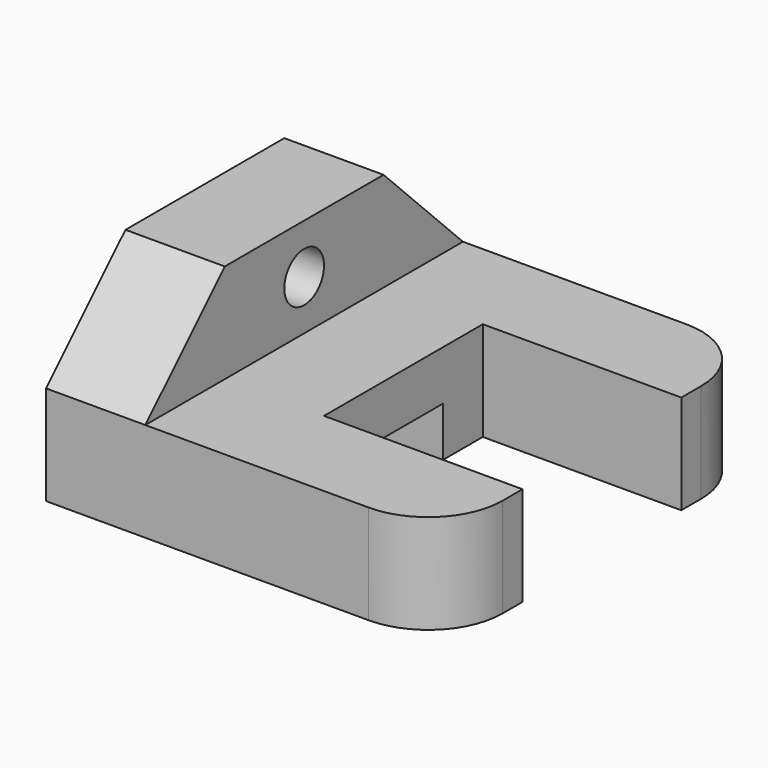
from build123d import *

# Parameters (mm, degrees)
F1_DEPTH = 50.8
F3_DEPTH = 50.8
F4_R     = 12.7
F5_DEPTH = 50.8
F6_W     = 50.8
F6_H     = 25.4
F7_DEPTH = 101.6


with BuildPart() as f1:
    # F0 (on Top) → F1 (new body)
    with BuildSketch(Plane.XY):
        with BuildLine():
            Line((165.1, 203.2), (0, 203.2))
            Line((0, 203.2), (0, 0))
            Line((0, 0), (165.1, 0))
            ThreePointArc((165.1, 0), (192.040768, 11.159232), (203.2, 38.1))
            Line((203.2, 38.1), (203.2, 50.8))
            Line((203.2, 50.8), (101.6, 50.8))
            Line((101.6, 50.8), (101.6, 152.4))
            Line((101.6, 152.4), (203.2, 152.4))
            Line((203.2, 152.4), (203.2, 165.1))
            ThreePointArc((203.2, 165.1), (192.040768, 192.040768), (165.1, 203.2))
        make_face()
    extrude(amount=F1_DEPTH)

    # F2 (on Right) → F3 (join)
    with BuildSketch(Plane.YZ):
        Polygon((152.4, 101.6), (50.8, 101.6), (0, 50.8), (203.2, 50.8), align=None)
    extrude(amount=F3_DEPTH)

    # F4 (on face) → F5 (cut)
    with BuildSketch(Plane.YZ.offset(50.8)):
        with Locations((101.6, 76.2)):
            Circle(F4_R)
    extrude(amount=-F5_DEPTH, mode=Mode.SUBTRACT)

    # F6 (on face) → F7 (cut)
    with BuildSketch(Plane.YZ.offset(101.6)):
        with Locations((101.6, 12.7)):
            Rectangle(F6_W, F6_H)
    extrude(amount=-F7_DEPTH, mode=Mode.SUBTRACT)


solid = f1.part
